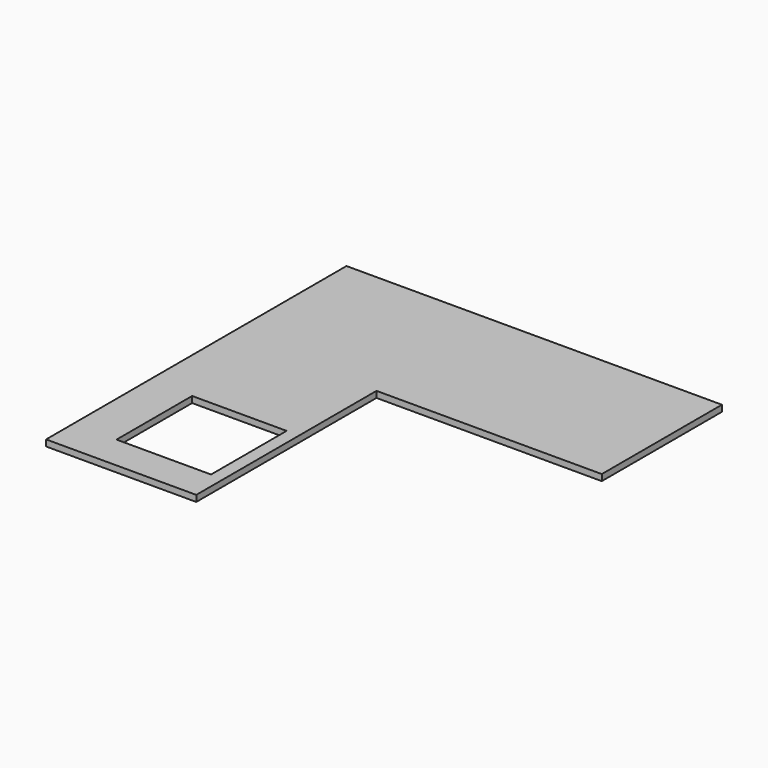
from build123d import *

# Parameters (mm, degrees)
F1_W     = 383.54
F1_H     = 383.54
F2_DEPTH = 25.4


with BuildPart() as f2:
    # F1 (on face) → F2 (new body)
    with BuildSketch(Plane.XY):
        Polygon((914.4, 609.6), (-609.6, 609.6), (-609.6, -914.4), (0, -914.4), (0, 0), (914.4, 0), align=None)
        with Locations((-242.57, -584.2)):
            Rectangle(F1_W, F1_H, mode=Mode.SUBTRACT)
    extrude(amount=F2_DEPTH)


solid = f2.part
